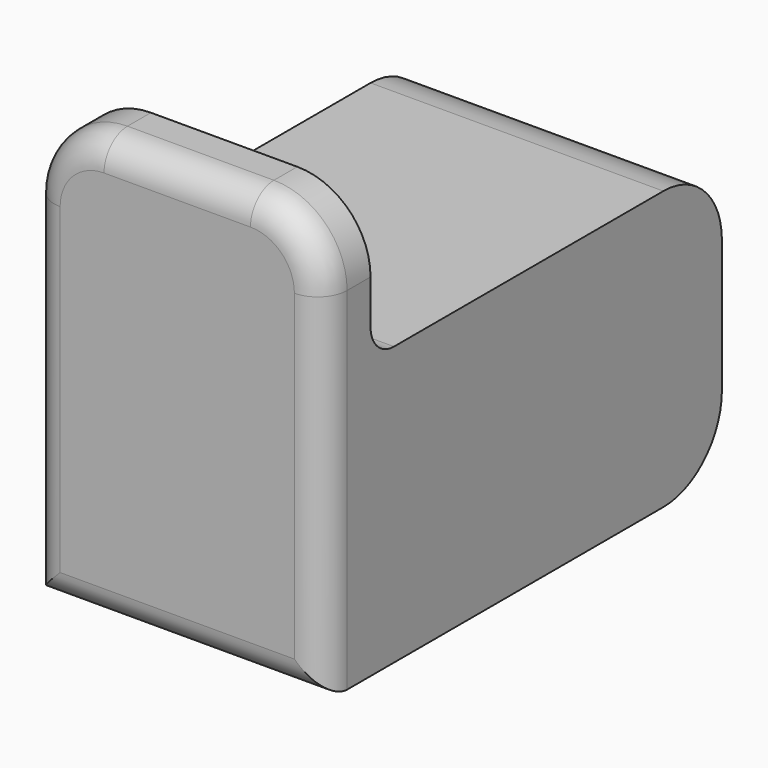
from build123d import *

# Parameters (mm, degrees)
F1_DEPTH = 20
F2_R     = 5
F3_R     = 2


with BuildPart() as f1:
    # F0 (on Right) → F1 (new body)
    with BuildSketch(Plane.YZ):
        Polygon((-17, 29), (-17, 0), (17, 0), (17, 19), (-13, 19), (-13, 29), align=None)
    extrude(amount=F1_DEPTH)

    # F2
    f2_edges = [f1.edges().sort_by_distance(p)[0] for p in [
        (20, -15, 29),
        (0, -15, 29),
        (10, 17, 19),
        (10, 17, 0),
    ]]
    fillet(f2_edges, radius=F2_R)

    # F3
    f3_edges = [f1.edges().sort_by_distance(p)[0] for p in [
        (10, -17, 0),
        (10, -17, 29),
        (10, -13, 19),
    ]]
    fillet(f3_edges, radius=F3_R)


solid = f1.part
